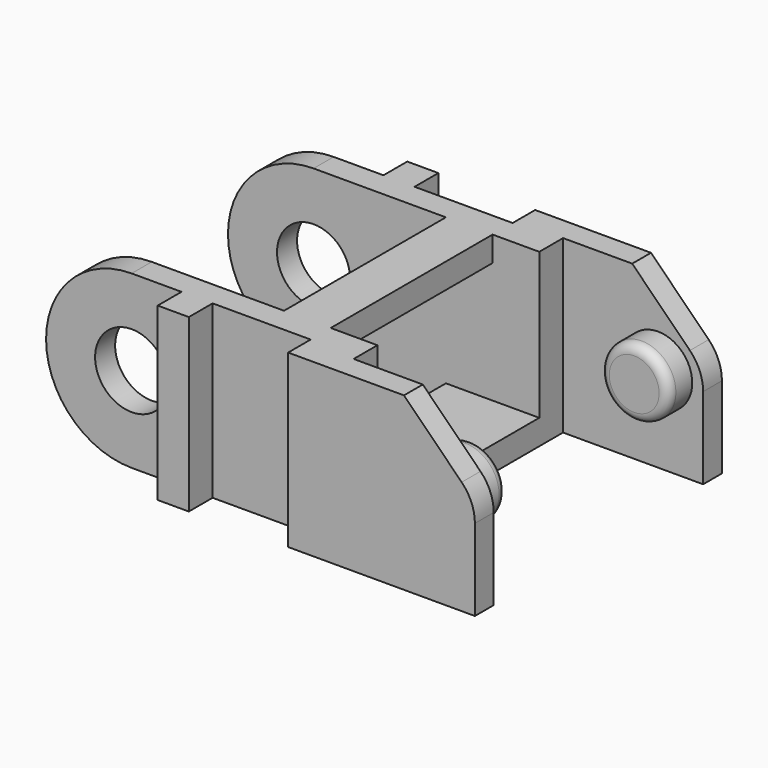
from build123d import *

# Parameters (mm, degrees)
SKETCH_R        = 2.35
PAD_DEPTH       = 16.22
PAD001_DEPTH    = 19.84
SKETCH010_W     = 14
SKETCH010_H     = 13
POCKET_DEPTH    = 1.611
POCKET001_DEPTH = 7.78
SKETCH012_W     = 14
SKETCH012_H     = 13
POCKET002_DEPTH = 1.61
SKETCH013_W     = 2
SKETCH013_H     = 1.91
PAD002_DEPTH    = 11
SKETCH014_R     = 2.2
PAD003_DEPTH    = 1.91
SKETCH015_R     = 2.2
PAD004_DEPTH    = 1.91
FILLET_R        = 0.6


with BuildPart() as part:
    # Sketch → Pad (new body)
    with BuildSketch(Plane.XZ):
        with BuildLine():
            Line((20, 0), (20, 11))
            Line((20, 11), (5.500002, 11))
            ThreePointArc((5.500002, 11), (0, 5.5), (5.500002, 0))
            Line((20, 0), (5.500002, 0))
        make_face()
        with Locations((5.5, 5.5)):
            Circle(SKETCH_R, mode=Mode.SUBTRACT)
    extrude(amount=PAD_DEPTH)

    # Sketch009 → Pad001 (join)
    with BuildSketch(Plane.XZ.offset(-1.81)):
        with BuildLine():
            Line((17, 0), (29, 0))
            Line((29, 0), (29, 5.242431))
            ThreePointArc((29, 5.242431), (28.779251, 6.352213), (28.15061, 7.293041))
            Line((24.443651, 11), (28.15061, 7.293041))
            Line((17, 11), (24.443651, 11))
            Line((17, 11), (17, 0))
        make_face()
    extrude(amount=PAD001_DEPTH)

    # Sketch010 → Pocket (cut, through all)
    with BuildSketch(Plane.XY.offset(1.61)):
        Polygon((20, -1.61), (20, -14.61), (20, -16.52), (29, -16.52), (29, 0.3), (20, 0.3), align=None)
        with Locations((7, -8.11)):
            Rectangle(SKETCH010_W, SKETCH010_H)
    extrude(amount=-POCKET_DEPTH, mode=Mode.SUBTRACT)

    # Sketch011 → Pocket001 (cut)
    with BuildSketch(Plane.XY.offset(9.39)):
        Polygon((0, -14.61), (0, -1.61), (14, -1.61), (20, -1.61), (20, 0.3), (29, 0.3), (29, -16.52), (20, -16.52), (20, -14.61), (14, -14.61), align=None)
    extrude(amount=-POCKET001_DEPTH, mode=Mode.SUBTRACT)

    # Sketch012 → Pocket002 (cut)
    with BuildSketch(Plane.XY.offset(11)):
        with Locations((7, -8.11)):
            Rectangle(SKETCH012_W, SKETCH012_H)
        Polygon((20, 0.3), (29, 0.3), (29, -16.52), (20, -16.52), (20, -14.61), (17, -14.61), (17, -1.61), (20, -1.61), align=None)
    extrude(amount=-POCKET002_DEPTH, mode=Mode.SUBTRACT)

    # Sketch013 → Pad002 (join)
    with BuildSketch(Plane.XY):
        with Locations((9.7, 0.955)):
            Rectangle(SKETCH013_W, SKETCH013_H)
        with Locations((9.7, -17.175)):
            Rectangle(SKETCH013_W, SKETCH013_H)
    extrude(amount=PAD002_DEPTH)

    # Sketch014 → Pad003 (join)
    with BuildSketch(Plane.XZ.offset(-0.3)):
        with Locations((26.1, 5.5)):
            Circle(SKETCH014_R)
    extrude(amount=PAD003_DEPTH)

    # Sketch015 → Pad004 (join)
    with BuildSketch(Plane.XZ.offset(16.52)):
        with Locations((26.1, 5.5)):
            Circle(SKETCH015_R)
    extrude(amount=-PAD004_DEPTH)

    # Fillet
    fillet_edges = [part.edges().sort_by_distance(p)[0] for p in [
        (23.9, -1.61, 5.5),
        (23.9, -14.61, 5.5),
    ]]
    fillet(fillet_edges, radius=FILLET_R)


solid = part.part
